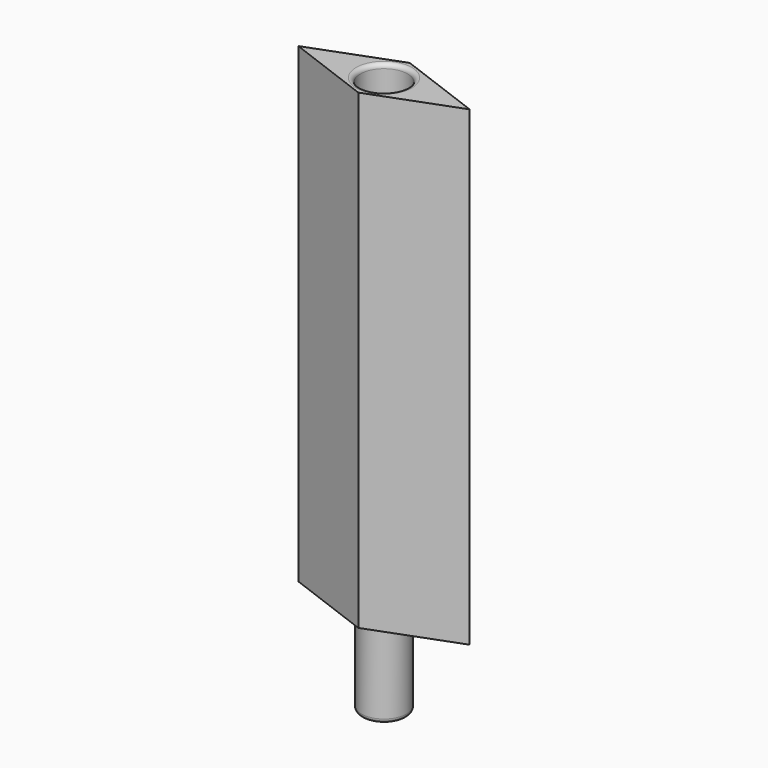
from build123d import *

# Parameters (mm, degrees)
F1_DEPTH = 139.7
F2_R     = 6.731
F3_DEPTH = 25.4
F4_R     = 6.985
F5_DEPTH = 25.4
F6_R     = 1.27
F7_R     = 1.27


with BuildPart() as f1:
    # F0 (on Top) → F1 (new body)
    with BuildSketch(Plane.XY):
        Polygon((25.4, 0), (0, 9.525), (-25.4, 0), (0, -9.525), align=None)
    extrude(amount=F1_DEPTH)

    # F2 (on Top) → F3 (join)
    with BuildSketch(Plane.XY):
        Circle(F2_R)
    extrude(amount=-F3_DEPTH)

    # F4 (on face) → F5 (cut)
    with BuildSketch(Plane.XY.offset(139.7)):
        Circle(F4_R)
    extrude(amount=-F5_DEPTH, mode=Mode.SUBTRACT)

    # F6
    f6_edges = [f1.edges().sort_by_distance(p)[0] for p in [
        (-6.985, 0, 114.3),
        (-6.985, 0, 139.7),
    ]]
    fillet(f6_edges, radius=F6_R)

    # F7
    f7_edges = [f1.edges().sort_by_distance(p)[0] for p in [
        (-6.731, 0, -25.4),
        (-6.731, 0, 0),
    ]]
    fillet(f7_edges, radius=F7_R)


solid = f1.part
